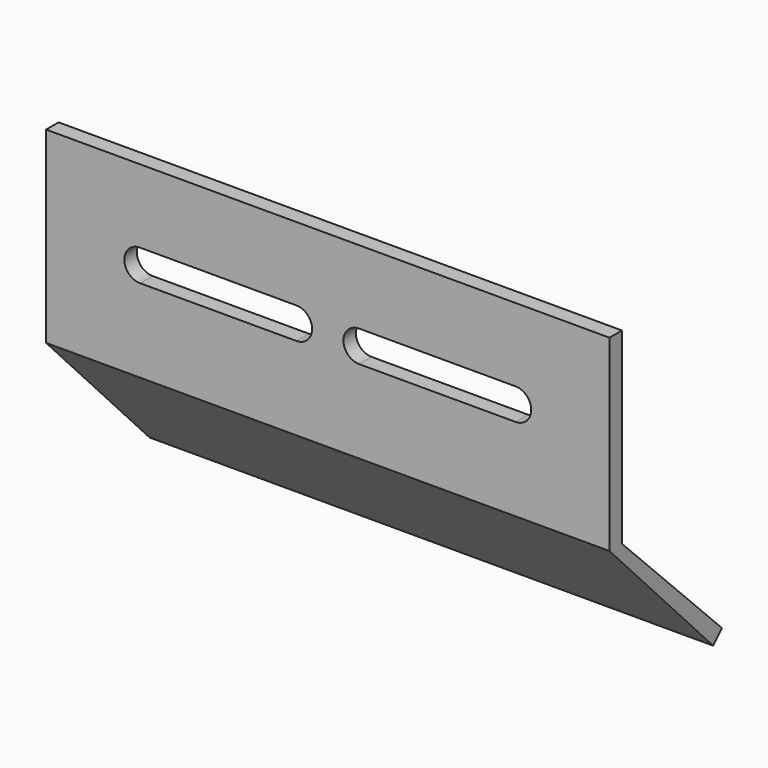
from build123d import *

# Parameters (mm, degrees)
F2_DEPTH = 180
F0_W     = 50
F0_H     = 10
F3_DEPTH = 25


with BuildPart() as f2:
    # F1 (on Right) → F2 (new body)
    with BuildSketch(Plane.YZ):
        Polygon((0, 103.449301), (0, 43.449301), (41.378234, 0), (44.913767, 3.535534), (5, 43.449301), (5, 103.449301), align=None)
    extrude(amount=F2_DEPTH)

    # F0 (on Front) → F3 (cut)
    with BuildSketch(Plane.XZ):
        with Locations((55, 75)):
            Rectangle(F0_W, F0_H)
        with BuildLine():
            ThreePointArc((80, 70), (85, 75), (80, 80))
            Line((80, 80), (80, 70))
        make_face()
        with BuildLine():
            Line((100, 70), (100, 80))
            ThreePointArc((100, 80), (95, 75), (100, 70))
        make_face()
        with Locations((125, 75)):
            Rectangle(F0_W, F0_H)
        with BuildLine():
            ThreePointArc((150, 70), (155, 75), (150, 80))
            Line((150, 80), (150, 70))
        make_face()
        with BuildLine():
            Line((30, 70), (30, 80))
            ThreePointArc((30, 80), (25, 75), (30, 70))
        make_face()
    extrude(amount=-F3_DEPTH, mode=Mode.SUBTRACT)


solid = f2.part
